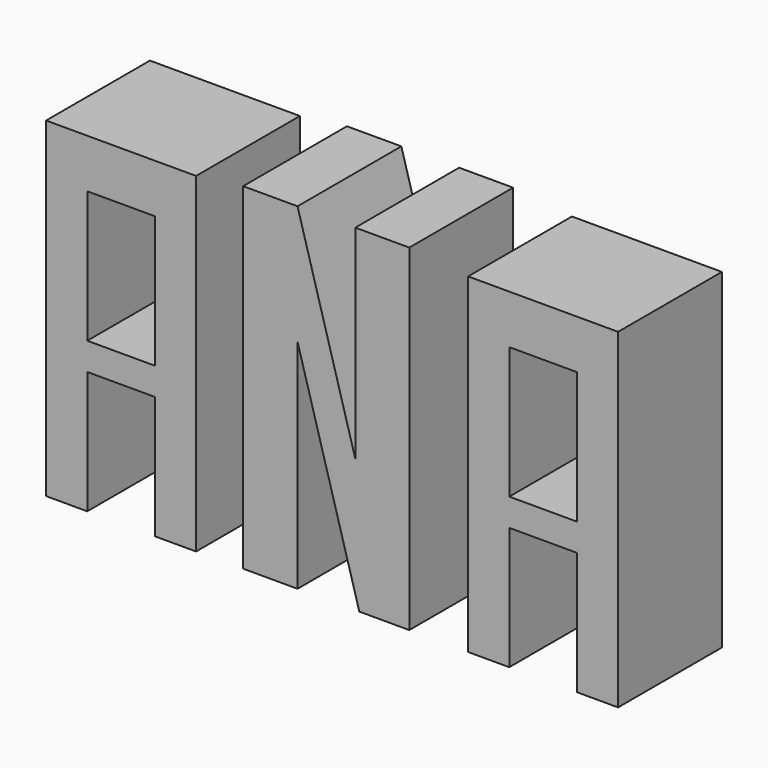
from build123d import *

# Parameters (mm, degrees)
F0_W     = 13.2390707731
F0_H     = 5.3783226758
F1_DEPTH = 25.4


with BuildPart() as f1:
    # F0 (on Front) → F1 (new body)
    with BuildSketch(Plane.XZ):
        Polygon((-26.622030884, 9.564936161), (-55.9782199562, 9.564936161), (-55.9782199562, -55.1510453224), (-47.9196608067, -55.1510453224), (-47.9196608067, -31.1369374394), (-47.9196608067, -25.7586147636), (-47.9196608067, -7.1228295565), (-47.9196608067, 0), (-34.6805900335, 0), (-34.6805900335, -7.1228295565), (-34.6805900335, -25.7586147636), (-34.6805900335, -31.1369374394), (-34.6805900335, -39.2773151398), (-34.6805900335, -55.1510453224), (-26.622030884, -55.1510453224), align=None)
        with Locations((-41.3001254201, -28.4477761015)):
            Rectangle(F0_W, F0_H)
    extrude(amount=F1_DEPTH)


with BuildPart() as f1b:
    # F0 (on Front) → F1, piece 2 (new body)
    with BuildSketch(Plane.XZ):
        Polygon((-17.4122489989, 10.7927164063), (-17.4122489989, 9.0658813715), (-17.4122489989, 0), (-17.4122489989, -55.1148019731), (-6.7634354346, -55.1148019731), (-6.7634354346, -12.5195495784), (5.3244065493, -55.1148019731), (15.1098025963, -55.1148019731), (15.1098025963, 10.7927164063), (4.5424767993, 10.7927164063), (4.5424767993, -29.0471645083), (-6.7634354346, 10.7927164063), align=None)
    extrude(amount=F1_DEPTH)


with BuildPart() as f1c:
    # F0 (on Front) → F1, piece 3 (new body)
    with BuildSketch(Plane.XZ):
        Polygon((55.9782199562, 9.564936161), (26.622030884, 9.564936161), (26.622030884, -55.1510453224), (34.6805900335, -55.1510453224), (34.6805900335, -31.1369374394), (34.6805900335, -25.7586147636), (34.6805900335, -7.1228295565), (34.6805900335, 0), (47.9196608067, 0), (47.9196608067, -7.1228295565), (47.9196608067, -25.7586147636), (47.9196608067, -31.1369374394), (47.9196608067, -55.1510453224), (55.9782199562, -55.1510453224), align=None)
        with Locations((41.3001254201, -28.4477761015)):
            Rectangle(F0_W, F0_H)
    extrude(amount=F1_DEPTH)


solid = Compound([f1.part, f1b.part, f1c.part])
